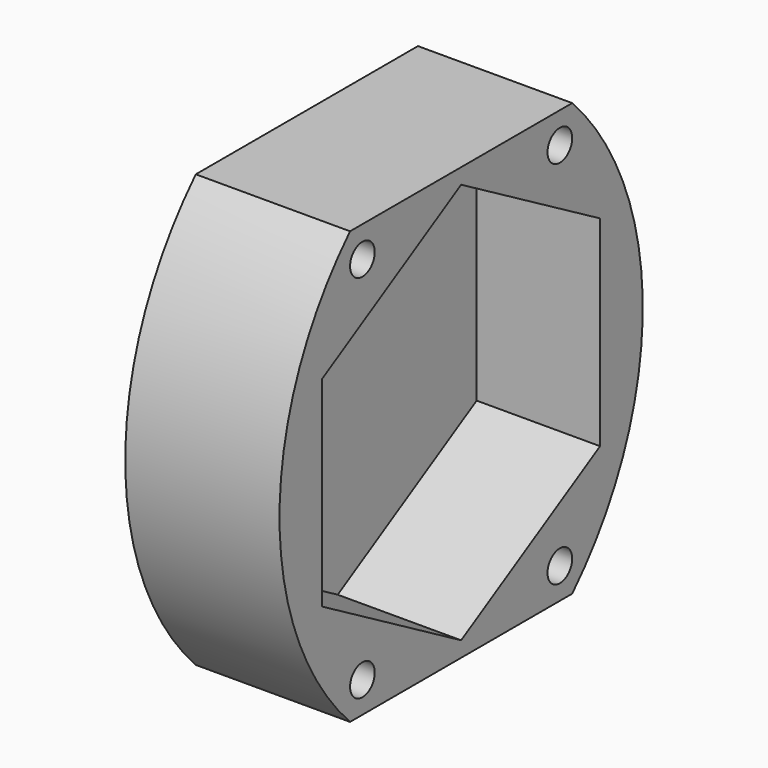
from build123d import *

# Parameters (mm, degrees)
F1_DEPTH = 25
F3_DEPTH = 20
F4_R     = 2.5
F5_DEPTH = 25.001


with BuildPart() as f1:
    # F0 (on Right) → F1 (new body)
    with BuildSketch(Plane.YZ):
        with BuildLine():
            Line((-22.5, -35), (22.5, -35))
            ThreePointArc((22.5, -35), (36.792858, 0), (22.5, 35))
            Line((22.5, 35), (-22.5, 35))
            ThreePointArc((-22.5, 35), (-36.792858, 0), (-22.5, -35))
        make_face()
    extrude(amount=F1_DEPTH)

    # F2 (on face) → F3 (cut)
    with BuildSketch(Plane.YZ.offset(25)):
        Polygon((28.145826, -16.25), (28.145826, 16.25), (0, 32.5), (-28.145826, 16.25), (-28.145826, -16.25), (0, -32.5), align=None)
    extrude(amount=-F3_DEPTH, mode=Mode.SUBTRACT)

    # F4 (on face) → F5 (cut, through all)
    with BuildSketch(Plane.YZ.offset(25)):
        with Locations((-20, 30)):
            Circle(F4_R)
        with Locations((20, 30)):
            Circle(F4_R)
        with Locations((20, -30)):
            Circle(F4_R)
        with Locations((-20, -30)):
            Circle(F4_R)
    extrude(amount=-F5_DEPTH, mode=Mode.SUBTRACT)


solid = f1.part
